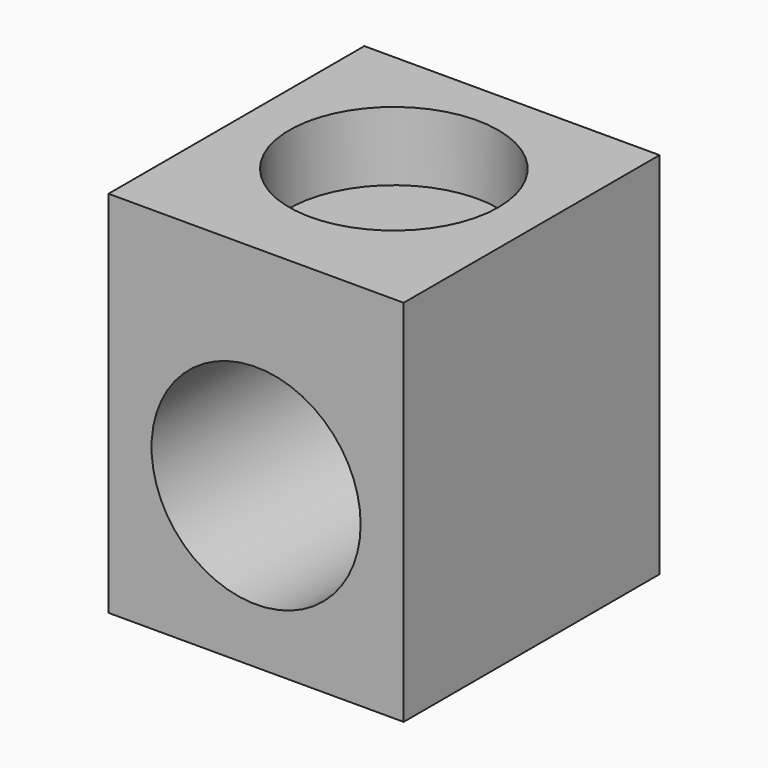
from build123d import *

# Parameters (mm, degrees)
F0_W     = 12
F0_H     = 15
F0_R     = 4.25
F1_DEPTH = 24
F2_R     = 4.125
F2_R_2   = 4.25
F3_DEPTH = 2.8
F5_W     = 22.825278
F5_H     = 44.441271
F6_DEPTH = 25


with BuildPart() as f1:
    # F0 (on Front) → F1 (new body)
    with BuildSketch(Plane.XZ):
        Rectangle(F0_W, F0_H)
        with Locations((0, -1)):
            Circle(F0_R, mode=Mode.SUBTRACT)
    extrude(amount=F1_DEPTH)

    # F2 (on face) → F3 (cut)
    with BuildSketch(Plane.XY.offset(7.5)):
        with Locations((0, -6)):
            Circle(F2_R)
        with Locations((0, -17)):
            Circle(F2_R_2)
    extrude(amount=-F3_DEPTH, mode=Mode.SUBTRACT)

    # F5 (on offset) → F6 (cut)
    with BuildSketch(Plane.XZ.offset(11)):
        with Locations((0.147067, 4.025047)):
            Rectangle(F5_W, F5_H)
    extrude(amount=-F6_DEPTH, mode=Mode.SUBTRACT)


solid = f1.part
